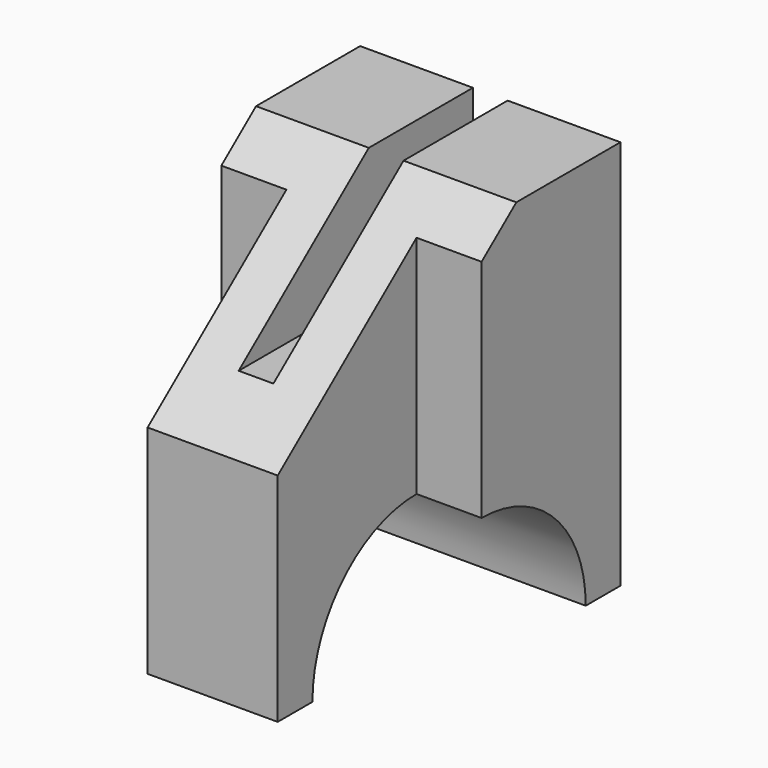
from build123d import *

# Parameters (mm, degrees)
PAD_DEPTH       = 30
SKETCH002_W     = 40
SKETCH002_H     = 90
POCKET_DEPTH    = 15
SKETCH003_W     = 40
SKETCH003_H     = 90
POCKET001_DEPTH = 15
SKETCH004_W     = 30
SKETCH004_H     = 8
POCKET002_DEPTH = 80.001


with BuildPart() as part:
    # Sketch → Pad (new body, symmetric)
    with BuildSketch(Plane.YZ):
        with BuildLine():
            ThreePointArc((70, 0), (40, 30), (10, 0))
            Line((10, 0), (0, 0))
            Line((0, 0), (0, 50))
            Line((0, 50), (50, 90))
            Line((50, 90), (80, 90))
            Line((80, 90), (80, 0))
            Line((80, 0), (70, 0))
        make_face()
    extrude(amount=PAD_DEPTH, both=True)

    # Sketch002 (on Face9 of Pad) → Pocket (cut)
    with BuildSketch(Plane.YZ.offset(30)):
        with Locations((20, 45)):
            Rectangle(SKETCH002_W, SKETCH002_H)
    extrude(amount=-POCKET_DEPTH, mode=Mode.SUBTRACT)

    # Sketch003 (on Face2 of Pocket) → Pocket001 (cut)
    with BuildSketch(Plane(origin=(-30, 0, 0), x_dir=(0, 1, 0), z_dir=(-1, 0, 0))):
        with Locations((20, -45)):
            Rectangle(SKETCH003_W, SKETCH003_H)
    extrude(amount=-POCKET001_DEPTH, mode=Mode.SUBTRACT)

    # Sketch004 (on Face10 of Pocket001) → Pocket002 (cut, through all)
    with BuildSketch(Plane.ZX.offset(80)):
        with Locations((75, 0)):
            Rectangle(SKETCH004_W, SKETCH004_H)
    extrude(amount=-POCKET002_DEPTH, mode=Mode.SUBTRACT)


solid = part.part
